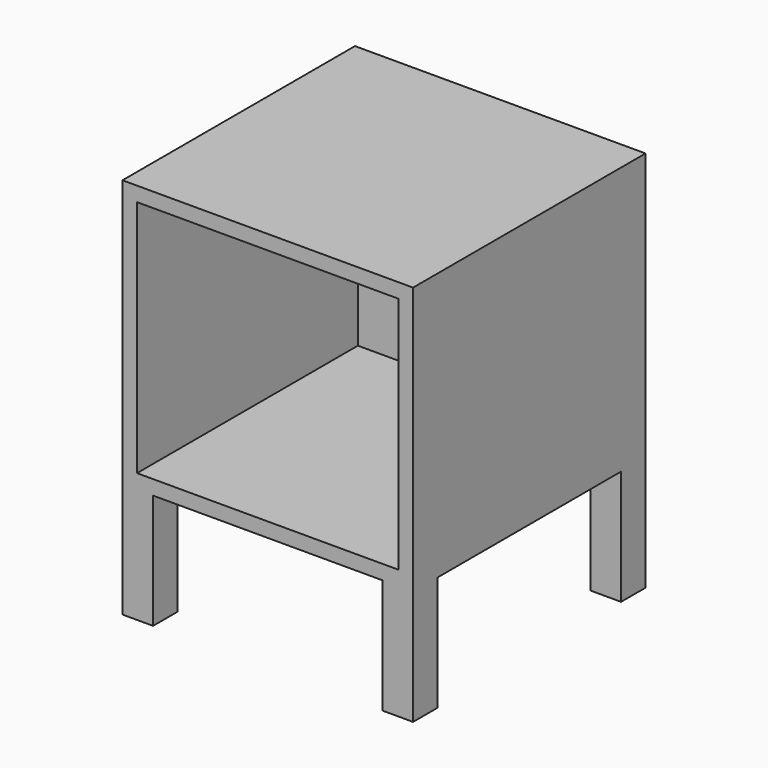
from build123d import *

# Parameters (mm, degrees)
F0_W     = 380
F0_H     = 380
F1_DEPTH = 350
F2_W     = 342
F2_H     = 312
F3_DEPTH = 361
F4_W     = 40
F4_H     = 40
F5_DEPTH = 150


with BuildPart() as f1:
    # F0 (on Top) → F1 (new body)
    with BuildSketch(Plane.XY):
        Rectangle(F0_W, F0_H)
    extrude(amount=F1_DEPTH)

    # F2 (on face) → F3 (cut)
    with BuildSketch(Plane.XZ.offset(190)):
        with Locations((0, 175)):
            Rectangle(F2_W, F2_H)
    extrude(amount=-F3_DEPTH, mode=Mode.SUBTRACT)

    # F4 (on face) → F5 (join)
    with BuildSketch(Plane(origin=(0, 0, 0), x_dir=(1, 0, 0), z_dir=(0, 0, -1))):
        with Locations((170, 170)):
            Rectangle(F4_W, F4_H)
        with Locations((-170, 170)):
            Rectangle(F4_W, F4_H)
        with Locations((170, -170)):
            Rectangle(F4_W, F4_H)
        with Locations((-170, -170)):
            Rectangle(F4_W, F4_H)
    extrude(amount=F5_DEPTH)


solid = f1.part
